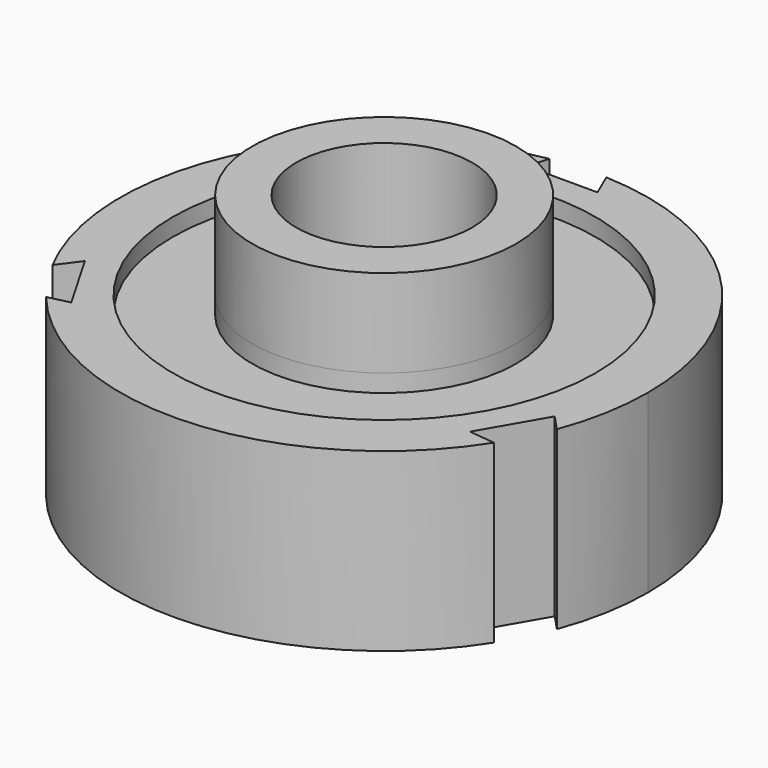
from build123d import *

# Parameters (mm, degrees)
F0_R     = 15
F0_R_2   = 5
F1_DEPTH = 10
F2_R     = 7.5
F2_R_2   = 5
F3_DEPTH = 5
F4_R     = 12.0112808184
F4_R_2   = 11.2253512915
F4_R_3   = 7.5
F5_DEPTH = 1
F7_DEPTH = 25


with BuildPart() as f1:
    # F0 (on Top) → F1 (new body)
    with BuildSketch(Plane.XY):
        Circle(F0_R)
        Circle(F0_R_2, mode=Mode.SUBTRACT)
    extrude(amount=F1_DEPTH)

    # F2 (on face) → F3 (join)
    with BuildSketch(Plane.XY.offset(10)):
        Circle(F2_R)
        Circle(F2_R_2, mode=Mode.SUBTRACT)
    extrude(amount=F3_DEPTH)

    # F4 (on face) → F5 (cut)
    with BuildSketch(Plane.XY.offset(10)):
        Circle(F4_R)
        Circle(F4_R_2, mode=Mode.SUBTRACT)
        Circle(F4_R_2)
        Circle(F4_R_3, mode=Mode.SUBTRACT)
    extrude(amount=-F5_DEPTH, mode=Mode.SUBTRACT)

    # F6 (on face) → F7 (cut)
    with BuildSketch(Plane.XY.offset(10)):
        Polygon((-1.9454706926, 16.4457075298), (-2.8029684909, 13.6159658432), (1.2272709282, 13.6159658432), (0, 16.4457075298), align=None)
        Polygon((-12.4054077814, -5.7451351204), (-14.242400504, -8.2228537649), (-13.2696651577, -9.907680807), (-10.3902880718, -9.2354248407), align=None)
        Polygon((11.1781368532, -7.8708307228), (14.242400504, -8.2228537649), (15.2151358503, -6.5380267228), (13.1932565627, -4.3805410025), align=None)
    extrude(amount=-F7_DEPTH, mode=Mode.SUBTRACT)


solid = f1.part
